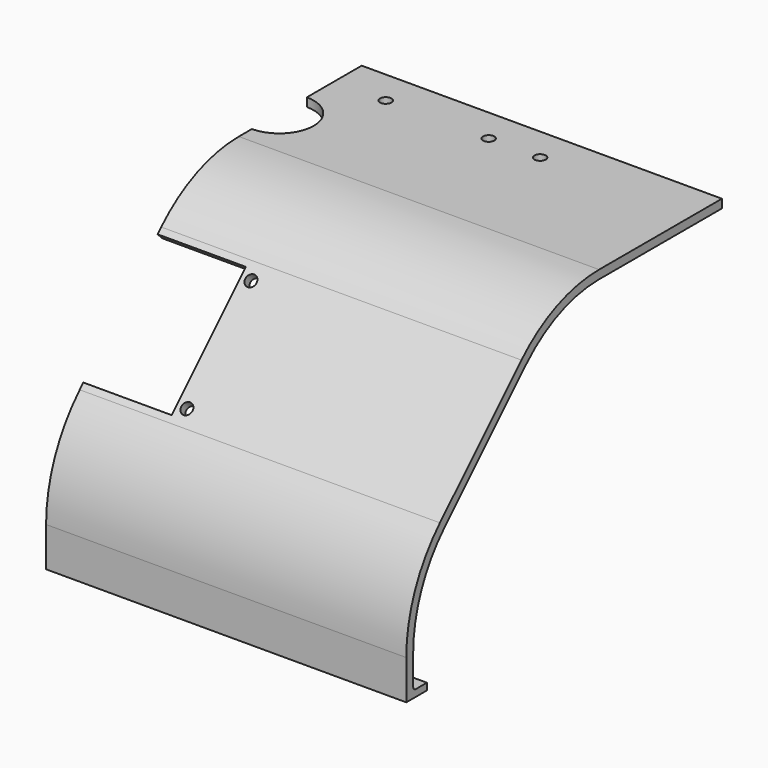
from build123d import *

# Parameters (mm, degrees)
PAD_DEPTH            = 105
PAD_DEPTH_BACK       = 105
SKETCH001_R          = 1.65
SKETCH001_W          = 38.25
SKETCH001_H          = 51.5
POCKET_DEPTH         = 101.705966
SKETCH003_R          = 1.65
POCKET001_DEPTH      = 5
SKETCH004_W          = 2
SKETCH004_H          = 210
PAD001_DEPTH         = 5
FILLET_R             = 1
SKETCH005_R          = 10
POCKET002_DEPTH      = 5
SKETCH006_W          = 110
SKETCH006_H          = 90
POCKET003_DEPTH      = 105
POCKET003_DEPTH_BACK = -77


with BuildPart() as part:
    # Sketch → Pad (new body, two sides)
    with BuildSketch(Plane.YZ) as pad_sk:
        with BuildLine():
            Line((12.736792, 82.5), (57.500792, 82.5))
            Line((57.500792, 82.5), (57.500792, 80))
            Line((57.500792, 80), (12.736792, 80))
            ThreePointArc((12.736792, 80), (-1.613837, 77.145482), (-13.779712, 69.016504))
            Line((-13.779712, 69.016504), (-43.478197, 39.318019))
            ThreePointArc((-43.478197, 39.318019), (-52.006167, 26.55501), (-55.000792, 11.500014))
            Line((-55.000792, 11.500014), (-55.000792, 0))
            Line((-55.000792, 0), (-57.500792, 0))
            Line((-57.500792, 11.500014), (-57.500792, 0))
            ThreePointArc((-45.245964, 41.085786), (-54.315866, 27.511719), (-57.500792, 11.500014))
            Line((-15.547479, 70.784271), (-45.245964, 41.085786))
            ThreePointArc((12.736792, 82.5), (-2.570545, 79.455181), (-15.547479, 70.784271))
        make_face()
    extrude(amount=PAD_DEPTH)
    extrude(pad_sk.sketch, amount=-PAD_DEPTH_BACK)

    # Sketch001 (on Face12 of Pad) → Pocket (cut, through all)
    with BuildSketch(Plane(origin=(0, -43.165875, 43.165875), x_dir=(0, -0.707107, -0.707107), z_dir=(0, -0.707107, 0.707107))):
        with Locations((-34.55831, 28.7)):
            Circle(SKETCH001_R)
        with Locations((-1.55831, 28.7)):
            Circle(SKETCH001_R)
        with Locations((-34.55831, -28.7)):
            Circle(SKETCH001_R)
        with Locations((-1.55831, -28.7)):
            Circle(SKETCH001_R)
        with Locations((-18.05831, 0)):
            Rectangle(SKETCH001_W, SKETCH001_H)
    extrude(amount=-POCKET_DEPTH, mode=Mode.SUBTRACT)

    # Sketch003 (on Face2 of Pocket) → Pocket001 (cut)
    with BuildSketch(Plane(origin=(0, 0, 82.5), x_dir=(0, -1, 0), z_dir=(0, 0, 1))):
        with Locations((-47.500792, 15)):
            Circle(SKETCH003_R)
        with Locations((-47.500792, 45)):
            Circle(SKETCH003_R)
        with Locations((-47.500792, -15)):
            Circle(SKETCH003_R)
        with Locations((-47.500792, -45)):
            Circle(SKETCH003_R)
        with Locations((-47.500792, 60)):
            Circle(SKETCH003_R)
        with Locations((-47.500792, -60)):
            Circle(SKETCH003_R)
    extrude(amount=-POCKET001_DEPTH, mode=Mode.SUBTRACT)

    # Sketch004 (on Face26 of Pocket001) → Pad001 (join)
    with BuildSketch(Plane.ZX.offset(-55.000792)):
        with Locations((1, 0)):
            Rectangle(SKETCH004_W, SKETCH004_H)
    extrude(amount=PAD001_DEPTH)

    # Fillet
    fillet_edges = [part.edges().sort_by_distance(p)[0] for p in [
        (0, -55.000792, 2),
    ]]
    fillet(fillet_edges, radius=FILLET_R)

    # Sketch005 (on Face15 of Fillet) → Pocket002 (cut)
    with BuildSketch(Plane(origin=(0, 0, 82.5), x_dir=(0, -1, 0), z_dir=(0, 0, 1))):
        with Locations((-27.500792, 0)):
            Circle(SKETCH005_R)
    extrude(amount=-POCKET002_DEPTH, mode=Mode.SUBTRACT)

    # Sketch006 → Pocket003 (cut, two sides)
    with BuildSketch(Plane.XZ) as pocket003_sk:
        with Locations((-55, 45)):
            Rectangle(SKETCH006_W, SKETCH006_H)
    extrude(amount=-POCKET003_DEPTH, mode=Mode.SUBTRACT)
    extrude(pocket003_sk.sketch, amount=-POCKET003_DEPTH_BACK, mode=Mode.SUBTRACT)


solid = part.part
